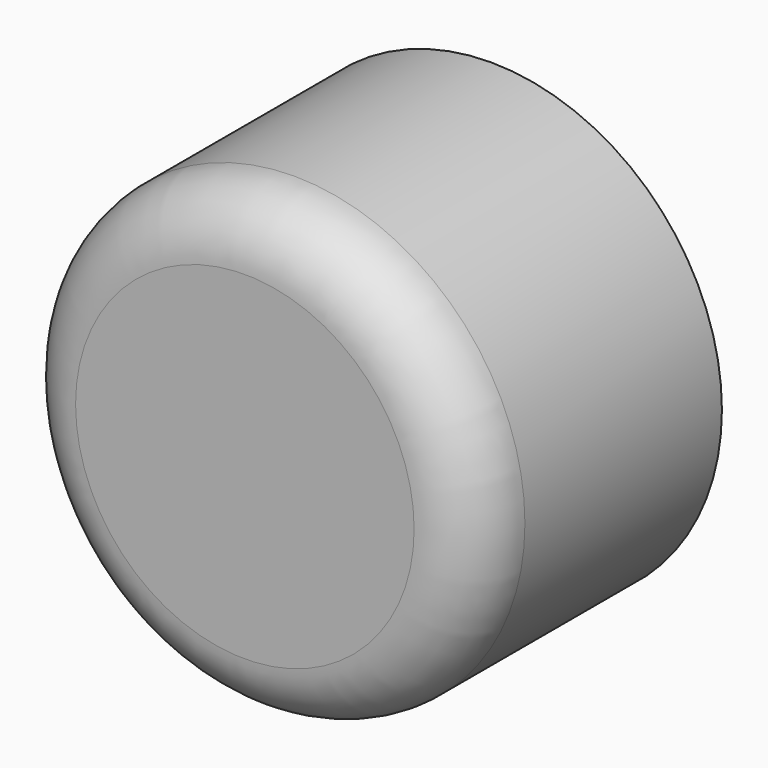
from build123d import *

# Parameters (mm, degrees)
F0_R     = 19.05
F1_DEPTH = 25.4
F2_R     = 21.73222
F2_R_2   = 19.05
F3_DEPTH = 19.05
F4_R     = 5.08
F5_R     = 1.761688
F6_DEPTH = 12.7


with BuildPart() as f1:
    # F0 (on Front) → F1 (new body)
    with BuildSketch(Plane.XZ):
        Circle(F0_R)
    extrude(amount=F1_DEPTH)

    # F2 (on face) → F3 (cut)
    with BuildSketch(Plane.XZ.offset(25.4)):
        Circle(F2_R)
        Circle(F2_R_2, mode=Mode.SUBTRACT)
    extrude(amount=-F3_DEPTH, mode=Mode.SUBTRACT)

    # F4
    f4_edges = [f1.edges().sort_by_distance(p)[0] for p in [
        (-19.05, -25.4, 0),
    ]]
    fillet(f4_edges, radius=F4_R)

    # F5 (on face) → F6 (cut)
    with BuildSketch(Plane(origin=(0, 0, 0), x_dir=(-1, 0, 0), z_dir=(0, 1, 0))):
        Circle(F5_R)
    extrude(amount=-F6_DEPTH, mode=Mode.SUBTRACT)


solid = f1.part
